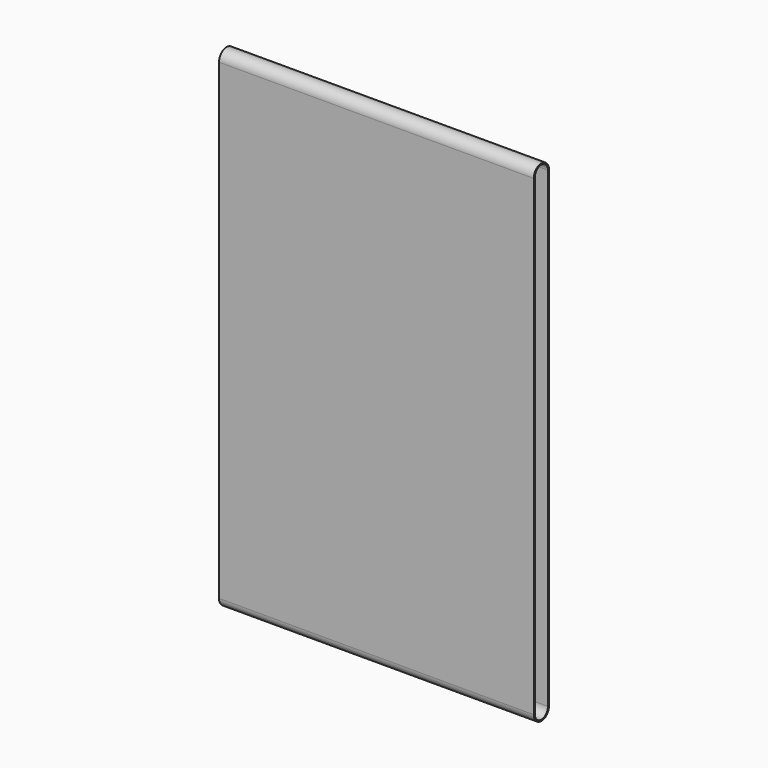
from build123d import *

# Parameters (mm, degrees)
F1_DEPTH = 304.8


with BuildPart() as f1:
    # F0 (on Right) → F1 (new body)
    with BuildSketch(Plane.YZ):
        with BuildLine():
            ThreePointArc((9.2075, 253.882135), (0, 263.089635), (-9.2075, 253.882135))
            Line((-9.2075, 253.882135), (-9.2075, -203.317865))
            ThreePointArc((-9.2075, -203.317865), (0, -212.525365), (9.2075, -203.317865))
            Line((9.2075, -203.317865), (9.2075, 253.882135))
        make_face()
        with BuildLine():
            ThreePointArc((-7.9375, 253.882135), (0, 261.819635), (7.9375, 253.882135))
            Line((7.9375, 253.882135), (7.9375, -203.317865))
            ThreePointArc((7.9375, -203.317865), (0, -211.255365), (-7.9375, -203.317865))
            Line((-7.9375, -203.317865), (-7.9375, 253.882135))
        make_face(mode=Mode.SUBTRACT)
    extrude(amount=F1_DEPTH)


solid = f1.part
